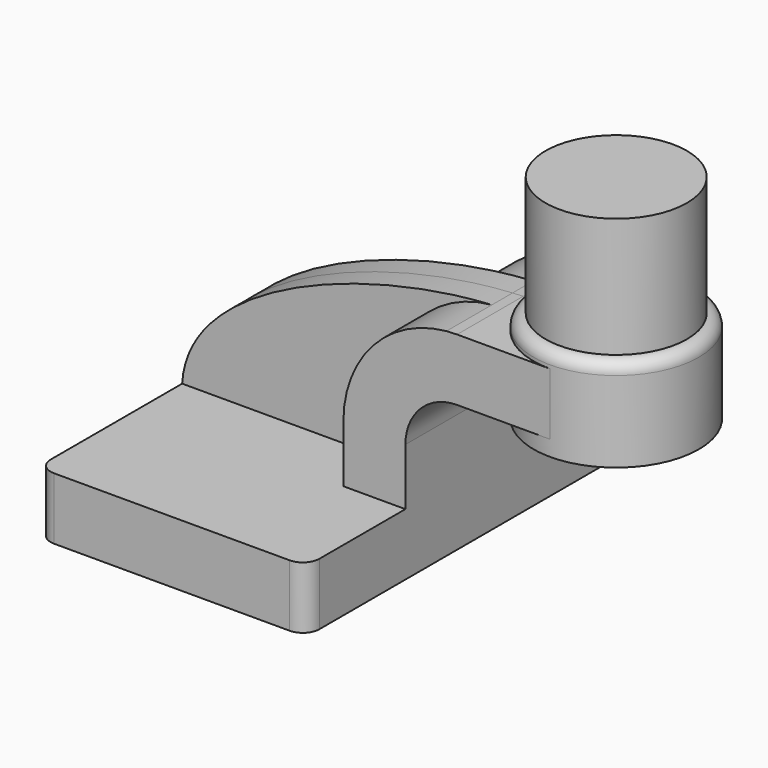
from build123d import *

# Parameters (mm, degrees)
F1_DEPTH = 63.5
F0_W     = 25.4
F0_H     = 19.05
F2_DEPTH = 25.4
F3_DEPTH = 7.9375
F5_R     = 5.08
F6_R     = 3.6792614691
F7_DEPTH = 36.83


with BuildPart() as f1:
    # F0 (on Front) → F1 (new body, symmetric)
    with BuildSketch(Plane.XZ):
        Polygon((22.225, 9.525), (-41.275, 9.525), (-41.275, -9.525), (41.275, -9.525), (41.275, 9.525), align=None)
    extrude(amount=F1_DEPTH, both=True)

    # F0 (on Front) → F2 (join, symmetric)
    with BuildSketch(Plane.XZ):
        with BuildLine():
            Line((22.225, 27.0002), (22.225, 9.525))
            Line((22.225, 9.525), (41.275, 9.525))
            Line((41.275, 9.525), (41.275, 27.0002))
            ThreePointArc((41.275, 27.0002), (45.9246798487, 38.2255201513), (57.15, 42.8752))
            Line((57.15, 42.8752), (60.325, 42.8752))
            Line((60.325, 42.8752), (60.325, 61.9252))
            Line((60.325, 61.9252), (57.15, 61.9252))
            add(Edge.make_bspline(
                [(53.8854342407, 61.7722898912), (54.9842067368, 61.8365871986), (56.0728453275, 61.8876096574), (57.15, 61.9252)],
                knots=[108.5245810491, 108.5245810491, 108.5245810491, 108.5245810491, 111.5045361635, 111.5045361635, 111.5045361635, 111.5045361635], degree=3))
            ThreePointArc((53.8854342407, 61.7722898912), (31.3258777096, 50.5133948686), (22.225, 27.0002))
        make_face()
        with Locations((73.025, 52.4002)):
            Rectangle(F0_W, F0_H)
    extrude(amount=F2_DEPTH, both=True)

    # F0 (on Front) → F3 (join, symmetric)
    with BuildSketch(Plane.XZ):
        with BuildLine():
            add(Edge.make_bspline(
                [(-41.275, 9.525), (-39.5856284224, 39.4828766469), (13.870125209, 59.4306981306), (53.8854342407, 61.7722898912)],
                knots=[0, 0, 0, 0, 108.5245810491, 108.5245810491, 108.5245810491, 108.5245810491], degree=3))
            Line((-41.275, 9.525), (22.225, 9.525))
            Line((22.225, 9.525), (22.225, 27.0002))
            ThreePointArc((22.225, 27.0002), (31.3258777096, 50.5133948686), (53.8854342407, 61.7722898912))
        make_face()
    extrude(amount=F3_DEPTH, both=True)

    # F0 (on Front) → F4 (revolve)
    with BuildSketch(Plane.XZ):
        Polygon((85.725, 66.675), (85.725, 61.9252), (85.725, 42.8752), (85.725, 38.1), (111.125, 38.1), (111.125, 66.675), align=None)
    revolve(axis=Axis((85.725, 0, 52.3875), (0, 0, 1)))

    # F5
    f5_edges = [f1.edges().sort_by_distance(p)[0] for p in [
        (41.275, -63.5, 0),
        (-41.275, -63.5, 0),
        (41.275, 63.5, 0),
        (-41.275, 63.5, 0),
    ]]
    fillet(f5_edges, radius=F5_R)

    # F6
    f6_edges = [f1.edges().sort_by_distance(p)[0] for p in [
        (60.325, 0, 66.675),
    ]]
    fillet(f6_edges, radius=F6_R)

    # F7 (add): a face of the model
    f7_faces = [f1.faces().sort_by_distance(p)[0] for p in [
        (85.725, 0, 66.675),
    ]]
    extrude(f7_faces, amount=F7_DEPTH)


solid = f1.part
